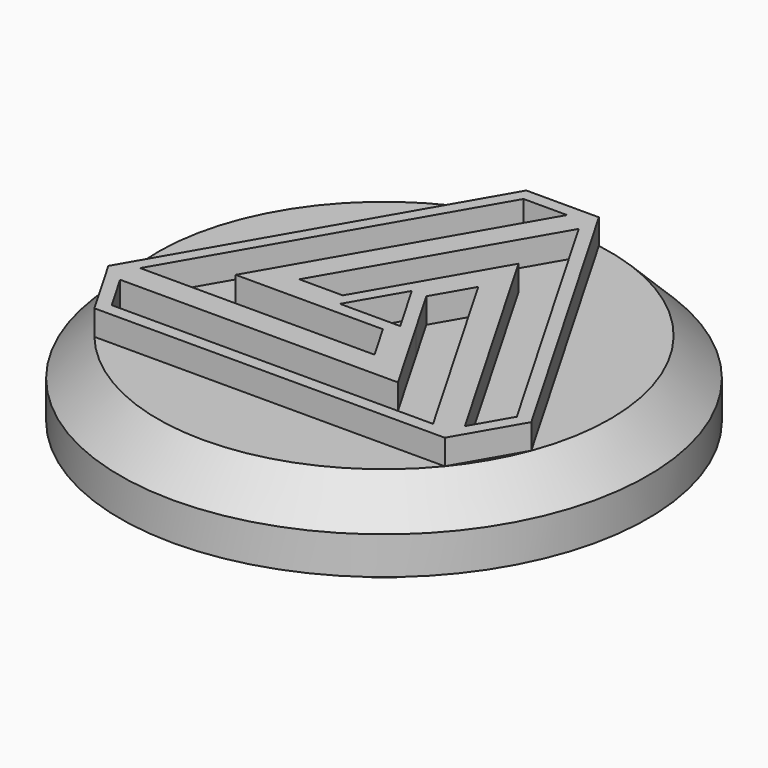
from build123d import *

# Parameters (mm, degrees)
F3_DEPTH = 1


with BuildPart() as f1:
    # F0 (on Right) → F1 (revolve)
    with BuildSketch(Plane.YZ):
        Polygon((-4, 0), (0, 0), (0, 6.4), (-9, 6.4), (-10.5, 4.9), (-10.5, 3.4), (-5, 3.4), (-5, 3), (-4, 3), align=None)
    revolve(axis=Axis((0, 0, 3.2), (0, 0, -1)))

    # F2 (on face) → F3 (join)
    with BuildSketch(Plane.XY.offset(6.4)):
        Polygon((-6.971653, -5.691753), (6.971653, -5.691753), (1.443376, 3.883505), (0, 1.383505), (1.198151, -0.691753), (2.641526, -3.191753), (-8.415029, -3.191753), align=None)
        Polygon((3.507552, -3.691753), (1.631163, -0.441753), (0.57735, 1.383505), (1.443376, 2.883505), (6.105628, -5.191753), (-6.682978, -5.191753), (-7.549004, -3.691753), align=None, mode=Mode.SUBTRACT)
        Polygon((-4.084902, -0.691753), (1.443376, 8.883505), (-1.443376, 8.883505), (-8.415029, -3.191753), (2.641526, -3.191753), (1.198151, -0.691753), (-1.198151, -0.691753), align=None)
        Polygon((0.909476, -1.191753), (1.775501, -2.691753), (-7.549004, -2.691753), (-1.154701, 8.383505), (0.57735, 8.383505), (-4.950927, -1.191753), (-1.198151, -1.191753), align=None, mode=Mode.SUBTRACT)
        Polygon((8.415029, -3.191753), (1.443376, 8.883505), (-4.084902, -0.691753), (-1.198151, -0.691753), (0, 1.383505), (1.443376, 3.883505), (6.971653, -5.691753), align=None)
        Polygon((-1.486826, -0.191753), (-3.218877, -0.191753), (1.443376, 7.883505), (7.837679, -3.191753), (6.971653, -4.691753), (1.443376, 4.883505), (-0.433013, 1.633505), align=None, mode=Mode.SUBTRACT)
    extrude(amount=F3_DEPTH)


solid = f1.part
